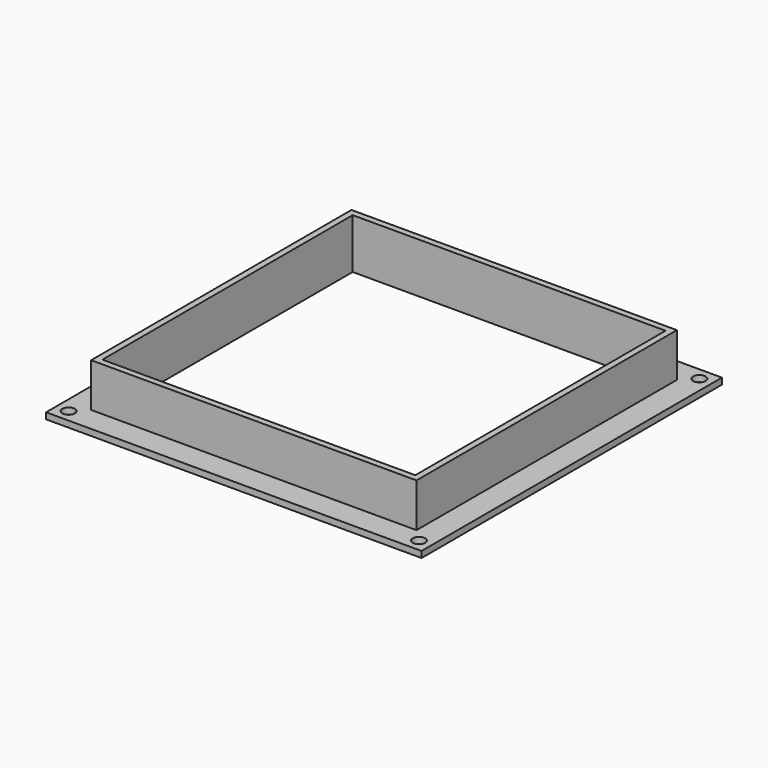
from build123d import *

# Parameters (mm, degrees)
F0_W     = 381
F0_H     = 381
F0_R     = 6.35
F0_W_2   = 330.2
F0_H_2   = 330.2
F1_DEPTH = 6.35
F0_W_3   = 317.5
F0_H_3   = 317.5
F2_DEPTH = 50.8


with BuildPart() as f1:
    # F0 (on Top) → F1 (new body)
    with BuildSketch(Plane.XY):
        with Locations((15.531801, -4.447729)):
            Rectangle(F0_W, F0_H)
        with Locations((-162.268199, -182.247729)):
            Circle(F0_R, mode=Mode.SUBTRACT)
        with Locations((193.331801, -182.247729)):
            Circle(F0_R, mode=Mode.SUBTRACT)
        with Locations((-162.268199, 173.352271)):
            Circle(F0_R, mode=Mode.SUBTRACT)
        with Locations((15.531801, -4.447729)):
            Rectangle(F0_W_2, F0_H_2, mode=Mode.SUBTRACT)
        with Locations((193.331801, 173.352271)):
            Circle(F0_R, mode=Mode.SUBTRACT)
    extrude(amount=F1_DEPTH)

    # F0 (on Top) → F2 (join)
    with BuildSketch(Plane.XY):
        with Locations((15.531801, -4.447729)):
            Rectangle(F0_W_2, F0_H_2)
        with Locations((15.531801, -4.447729)):
            Rectangle(F0_W_3, F0_H_3, mode=Mode.SUBTRACT)
    extrude(amount=F2_DEPTH)


solid = f1.part
